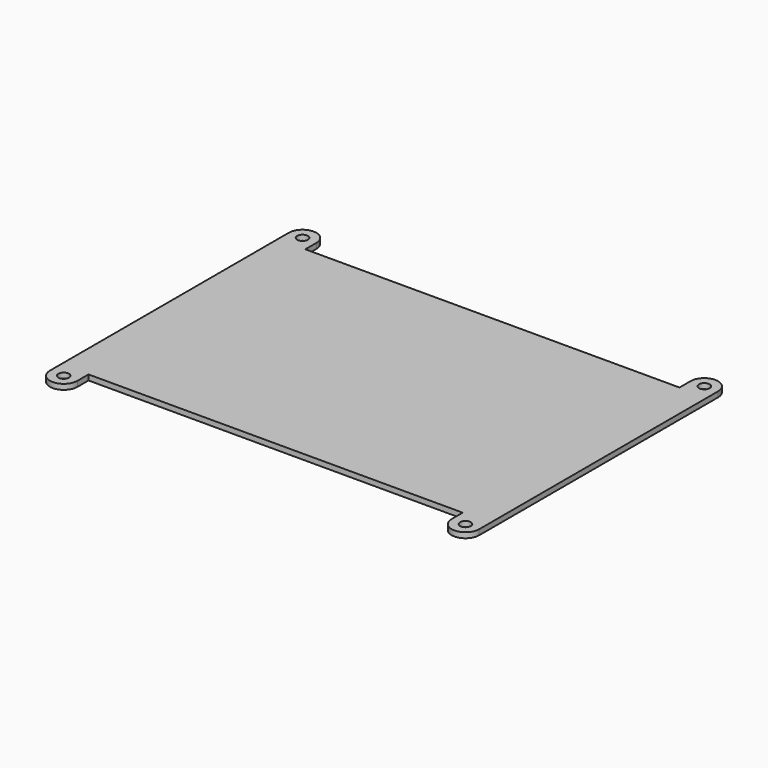
from build123d import *

# Parameters (mm, degrees)
F0_R     = 1.5
F1_DEPTH = 1.5
F2_DEPTH = 1.5


with BuildPart() as f1:
    # F0 (on Top) → F1 (new body)
    with BuildSketch(Plane.XY):
        with BuildLine():
            Line((-52.603, -38.1), (-60.35, -38.1))
            Line((-60.35, -38.1), (-60.35, -41.9735))
            ThreePointArc((-60.35, -41.9735), (-56.4765, -45.847), (-52.603, -41.9735))
            Line((-52.603, -41.9735), (-52.603, -38.1))
        make_face()
        with Locations((-56.4765, -41.9735)):
            Circle(F0_R, mode=Mode.SUBTRACT)
        with BuildLine():
            Line((52.603, 41.9735), (52.603, 38.1))
            Line((52.603, 38.1), (60.35, 38.1))
            Line((60.35, 38.1), (60.35, 41.9735))
            ThreePointArc((60.35, 41.9735), (56.4765, 45.847), (52.603, 41.9735))
        make_face()
        with Locations((56.4765, 41.9735)):
            Circle(F0_R, mode=Mode.SUBTRACT)
        Polygon((-52.603, 38.1), (-60.35, 38.1), (-60.35, -38.1), (-52.603, -38.1), (52.603, -38.1), (60.35, -38.1), (60.35, 38.1), (52.603, 38.1), align=None)
        with BuildLine():
            Line((60.35, -38.1), (52.603, -38.1))
            Line((52.603, -38.1), (52.603, -41.9735))
            ThreePointArc((52.603, -41.9735), (56.4765, -45.847), (60.35, -41.9735))
            Line((60.35, -41.9735), (60.35, -38.1))
        make_face()
        with Locations((56.4765, -41.9735)):
            Circle(F0_R, mode=Mode.SUBTRACT)
    extrude(amount=F1_DEPTH)

    # F0 (on Top) → F2 (join)
    with BuildSketch(Plane.XY):
        with BuildLine():
            Line((-60.35, 41.9735), (-60.35, 38.1))
            Line((-60.35, 38.1), (-52.603, 38.1))
            Line((-52.603, 38.1), (-52.603, 41.9735))
            ThreePointArc((-52.603, 41.9735), (-56.4765, 45.847), (-60.35, 41.9735))
        make_face()
        with Locations((-56.4765, 41.9735)):
            Circle(F0_R, mode=Mode.SUBTRACT)
    extrude(amount=F2_DEPTH)


solid = f1.part
